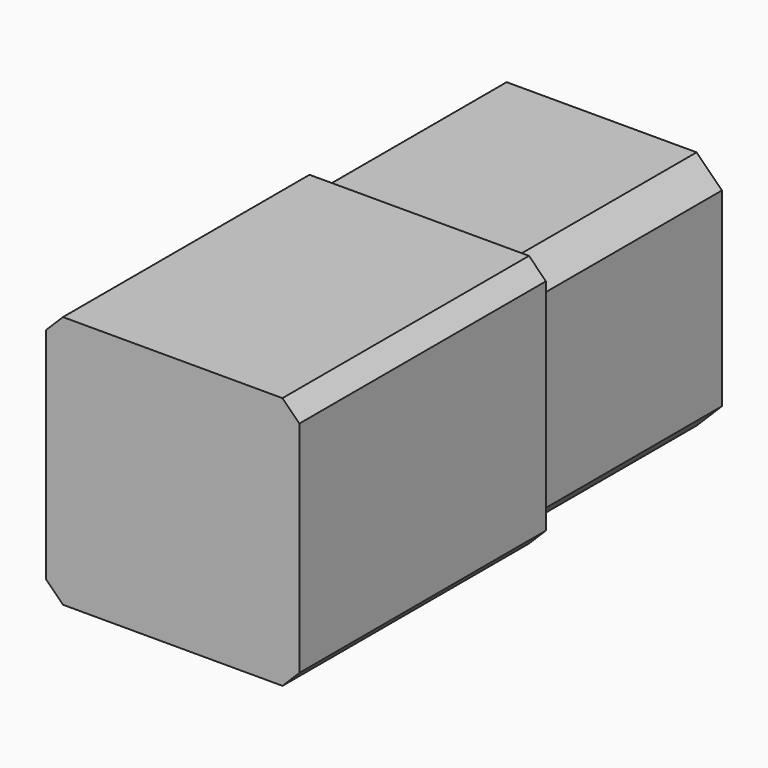
from build123d import *

# Parameters (mm, degrees)
SKETCH025_W              = 60
SKETCH025_H              = 60
PAD022_DEPTH             = 73
SKETCH026_W              = 57
SKETCH026_H              = 57
PAD023_DEPTH             = 54
CHAMFER_SIZE             = 6
CHAMFER001_SIZE          = 4
CLONE010_PLACEMENT_ANGLE = 180


with BuildPart() as part:
    # Sketch025 → Pad022 (new body)
    with BuildSketch(Plane.XZ):
        Rectangle(SKETCH025_W, SKETCH025_H)
    extrude(amount=PAD022_DEPTH)

    # Sketch026 (on Face6 of Pad022) → Pad023 (join)
    with BuildSketch(Plane.XZ.offset(73)):
        Rectangle(SKETCH026_W, SKETCH026_H)
    extrude(amount=PAD023_DEPTH)

    # Chamfer
    chamfer_edges = [part.edges().sort_by_distance(p)[0] for p in [
        (-28.5, -100, 28.5),
        (-28.5, -100, -28.5),
        (28.5, -100, -28.5),
        (28.5, -100, 28.5),
    ]]
    chamfer(chamfer_edges, length=CHAMFER_SIZE)

    # Chamfer001
    chamfer001_edges = [part.edges().sort_by_distance(p)[0] for p in [
        (30, -36.5, 30),
        (-30, -36.5, -30),
        (-30, -36.5, 30),
        (30, -36.5, -30),
    ]]
    chamfer(chamfer001_edges, length=CHAMFER001_SIZE)


with BuildPart() as part_1:
    # Clone010 placement: moved
    add(part.part.moved(Location((10, -16.4, 250))).rotate(Axis((10, -16.4, 250), (0, 0, 1)), CLONE010_PLACEMENT_ANGLE))


solid = part_1.part
